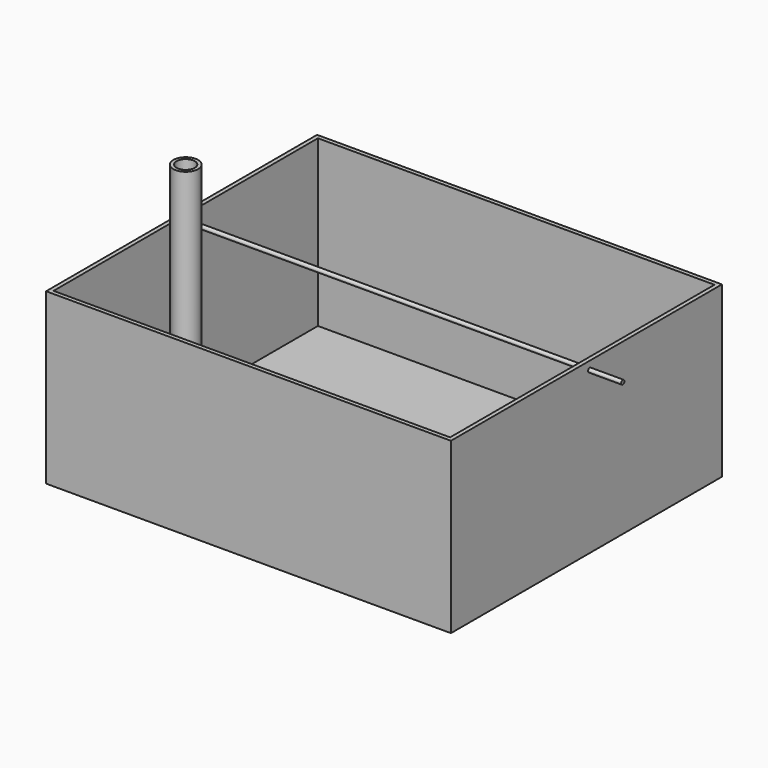
from build123d import *

# Parameters (mm, degrees)
F0_W          = 311.15
F0_H          = 260.35
F0_W_2        = 304.8
F0_H_2        = 254
F1_DEPTH      = 127
F2_W          = 311.15
F2_H          = 260.35
F3_DEPTH      = 3.175
F5_R          = 1.5875
F6_DEPTH      = 311.151
F7_R          = 1.5875
F8_DEPTH      = 25.4
F8_DEPTH_BACK = 311.15
F4_R          = 9.525
F4_R_2        = 6.985
F9_DEPTH      = 203.2


with BuildPart() as f1:
    # F0 (on Top) → F1 (new body)
    with BuildSketch(Plane.XY):
        Rectangle(F0_W, F0_H)
        Rectangle(F0_W_2, F0_H_2, mode=Mode.SUBTRACT)
    extrude(amount=F1_DEPTH)

    # F2 (on face) → F3 (join)
    with BuildSketch(Plane(origin=(0, 0, 0), x_dir=(1, 0, 0), z_dir=(0, 0, -1))):
        Rectangle(F2_W, F2_H)
    extrude(amount=F3_DEPTH)

    # F5 (on face) → F6 (cut, through all)
    with BuildSketch(Plane.YZ.offset(155.575)):
        with Locations((3.175, 120.65)):
            Circle(F5_R)
    extrude(amount=-F6_DEPTH, mode=Mode.SUBTRACT)


with BuildPart() as f8:
    # F7 (on face) → F8 (new body, two sides)
    with BuildSketch(Plane.YZ.offset(155.575)) as f8_sk:
        with Locations((3.175, 120.65)):
            Circle(F7_R)
    extrude(amount=F8_DEPTH)
    extrude(f8_sk.sketch, amount=-F8_DEPTH_BACK)


with BuildPart() as f9:
    # F4 (on face) → F9 (new body)
    with BuildSketch(Plane.XY):
        with Locations((-101.6, -63.5)):
            Circle(F4_R)
        with Locations((-101.6, -63.5)):
            Circle(F4_R_2, mode=Mode.SUBTRACT)
    extrude(amount=F9_DEPTH)


solid = Compound([f1.part, f8.part, f9.part])
